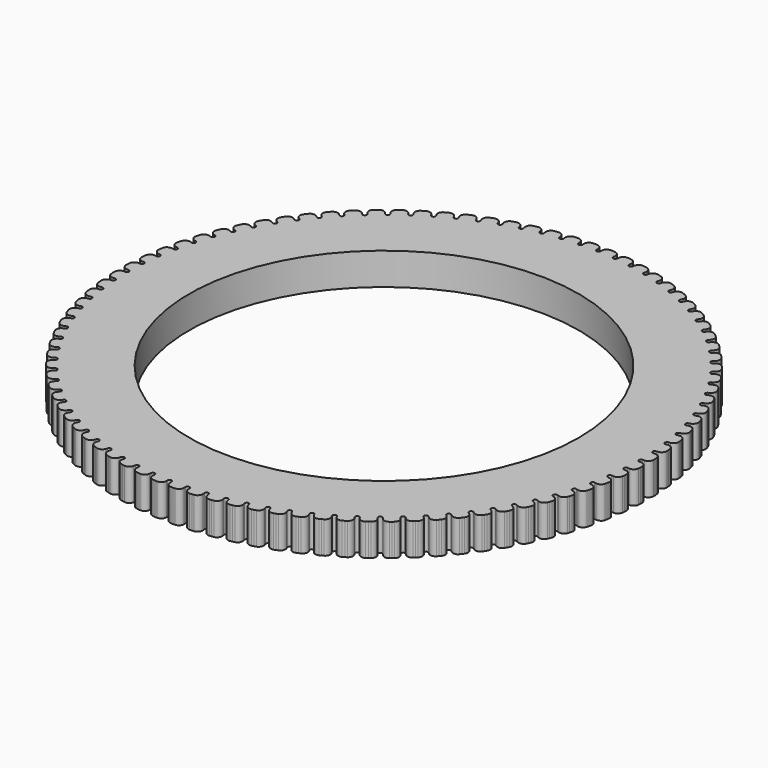
from build123d import *

# Parameters (mm, degrees)
F1_DEPTH = 3.175


with BuildPart() as f1:
    # F0 (on Top) → F1 (new body)
    with BuildSketch(Plane.XY):
        with BuildLine():
            ThreePointArc((1.0883892412, 25.4375211326), (0.8816834349, 25.2481101584), (0.6886937953, 25.4514788051))
            Line((0.6886937953, 25.4514788051), (0.691787247, 25.6287025377))
            ThreePointArc((0.691787247, 25.6287025377), (0.5523547983, 25.9872524846), (0.2015935622, 26.1452589003))
            Line((0.2015935622, 26.1452589003), (0, 26.1522987026))
            Line((0, 26.1522987026), (-0.2046078058, 26.1451536406))
            ThreePointArc((-0.2046078058, 26.1451536406), (-0.5584065419, 25.9839182674), (-0.6945694016, 25.6197341562))
            Line((-0.6945694016, 25.6197341562), (-0.6886937953, 25.4514788051))
            ThreePointArc((-0.6886937953, 25.4514788051), (-0.8816834349, 25.2481101584), (-1.0883892412, 25.4375211326))
            Line((-1.0883892412, 25.4375211326), (-1.0976658276, 25.6145289454))
            ThreePointArc((-1.0976658276, 25.6145289454), (-1.2617698058, 25.9624791667), (-1.6226985756, 26.0956328197))
            Line((-1.6226985756, 26.0956328197), (-1.8242921378, 26.0885930174))
            Line((-1.8242921378, 26.0885930174), (-2.0279031149, 26.0671926414))
            ThreePointArc((-2.0279031149, 26.0671926414), (-2.369592804, 25.8816702772), (-2.4800197784, 25.5088750592))
            Line((-2.4800197784, 25.5088750592), (-2.4624215848, 25.3414394313))
            ThreePointArc((-2.4624215848, 25.3414394313), (-2.6407548318, 25.1251039036), (-2.8601697547, 25.299634414))
            Line((-2.8601697547, 25.299634414), (-2.8817711847, 25.4755639428))
            ThreePointArc((-2.8817711847, 25.4755639428), (-3.0697471943, 25.81121926), (-3.4390850891, 25.9188714391))
            Line((-3.4390850891, 25.9188714391), (-3.6396965077, 25.8977863294))
            Line((-3.6396965077, 25.8977863294), (-3.8413186839, 25.8622348998))
            ThreePointArc((-3.8413186839, 25.8622348998), (-4.1692346482, 25.653329391), (-4.2533877482, 25.273739287))
            Line((-4.2533877482, 25.273739287), (-4.2241527039, 25.1079391118))
            ThreePointArc((-4.2241527039, 25.1079391118), (-4.3869607365, 24.8796906682), (-4.6180158087, 25.0384904198))
            Line((-4.6180158087, 25.0384904198), (-4.6518368422, 25.2124845534))
            ThreePointArc((-4.6518368422, 25.2124845534), (-4.862769083, 25.5342096876), (-5.2387167256, 25.6158359223))
            Line((-5.2387167256, 25.6158359223), (-5.437368642, 25.5808082297))
            Line((-5.437368642, 25.5808082297), (-5.6360197344, 25.5312789495))
            ThreePointArc((-5.6360197344, 25.5312789495), (-5.9485644002, 25.3000080626), (-6.0060336404, 24.9154723976))
            Line((-6.0060336404, 24.9154723976), (-5.9653041756, 24.7521154369))
            ThreePointArc((-5.9653041756, 24.7521154369), (-6.1117938095, 24.5130660808), (-6.3533633539, 24.655361417))
            Line((-6.3533633539, 24.655361417), (-6.3992392182, 24.8265724737))
            ThreePointArc((-6.3992392182, 24.8265724737), (-6.6321000496, 25.1328000123), (-7.0128258609, 25.1880026277))
            Line((-7.0128258609, 25.1880026277), (-7.2085504629, 25.1392030036))
            Line((-7.2085504629, 25.1392030036), (-7.4032626633, 25.0759371746))
            ThreePointArc((-7.4032626633, 25.0759371746), (-7.6989133445, 24.8234276382), (-7.7294187405, 24.4358198312))
            Line((-7.7294187405, 24.4358198312), (-7.6773932851, 24.2757019436))
            ThreePointArc((-7.6773932851, 24.2757019436), (-7.8068508374, 24.0270162994), (-8.0577579514, 24.1521139718))
            Line((-8.0577579514, 24.1521139718), (-8.115465144, 24.3197078284))
            ThreePointArc((-8.115465144, 24.3197078284), (-8.3691200914, 24.6089458616), (-8.7527692136, 24.6374559162))
            Line((-8.7527692136, 24.6374559162), (-8.9446129506, 24.5751221075))
            Line((-8.9446129506, 24.5751221075), (-9.1344376407, 24.4984279543))
            ThreePointArc((-9.1344376407, 24.4984279543), (-9.4117539568, 24.2259099695), (-9.4151468893, 23.8371184068))
            Line((-9.4151468893, 23.8371184068), (-9.3520789061, 23.6810196707))
            ThreePointArc((-9.3520789061, 23.6810196707), (-9.4638736728, 23.4239093098), (-9.7228959621, 23.5311998551))
            Line((-9.7228959621, 23.5311998551), (-9.7921533394, 23.6943600112))
            ThreePointArc((-9.7921533394, 23.6943600112), (-10.0653666213, 23.9651994004), (-10.4500699544, 23.966877996))
            Line((-10.4500699544, 23.966877996), (-10.637098183, 23.8913136867))
            Line((-10.637098183, 23.8913136867), (-10.8211105561, 23.8015648557))
            ThreePointArc((-10.8211105561, 23.8015648557), (-11.0787414499, 23.5103661026), (-11.055005389, 23.1222849376))
            Line((-11.055005389, 23.1222849376), (-10.9812021389, 22.9709658503))
            ThreePointArc((-10.9812021389, 22.9709658503), (-11.0747894669, 22.7066833887), (-11.3406650011, 22.795644098))
            Line((-11.3406650011, 22.795644098), (-11.421135148, 22.9535756537))
            ThreePointArc((-11.421135148, 22.9535756537), (-11.7125756969, 23.2046968967), (-12.0964590049, 23.1795358554))
            Line((-12.0964590049, 23.1795358554), (-12.2777605424, 23.0911091872))
            Line((-12.2777605424, 23.0911091872), (-12.4550641085, 22.9887429256))
            ThreePointArc((-12.4550641085, 22.9887429256), (-12.6917544283, 22.6802820954), (-12.6410050137, 22.2948020204))
            Line((-12.6410050137, 22.2948020204), (-12.5568260586, 22.1489997933))
            ThreePointArc((-12.5568260586, 22.1489997933), (-12.63175, 21.8788327885), (-12.9031834601, 21.9490302543))
            Line((-12.9031834601, 21.9490302543), (-12.9944743343, 22.100963783))
            ThreePointArc((-12.9944743343, 22.100963783), (-13.302722281, 22.3311434423), (-13.683915323, 22.2792653461))
            Line((-13.683915323, 22.2792653461), (-13.8586068865, 22.1784071249))
            Line((-13.8586068865, 22.1784071249), (-14.0283378406, 22.0639221507))
            ThreePointArc((-14.0283378406, 22.0639221507), (-14.2429344549, 21.7397020335), (-14.1654189325, 21.3587010689))
            Line((-14.1654189325, 21.3587010689), (-14.0712743839, 21.2191260358))
            ThreePointArc((-14.0712743839, 21.2191260358), (-14.1271699168, 20.9443907142), (-14.4028389064, 20.9954829415))
            Line((-14.4028389064, 20.9954829415), (-14.5045057477, 21.1406782383))
            ThreePointArc((-14.5045057477, 21.1406782383), (-14.8280593393, 21.3487949017), (-15.2047049812, 21.2704524955))
            Line((-15.2047049812, 21.2704524955), (-15.371935491, 21.1576540924))
            Line((-15.371935491, 21.1576540924), (-15.5332669209, 21.0316081651))
            ThreePointArc((-15.5332669209, 21.0316081651), (-15.7247243365, 20.6932083287), (-15.6208203543, 20.3185426728))
            Line((-15.6208203543, 20.3185426728), (-15.5171688749, 20.1858748291))
            ThreePointArc((-15.5171688749, 20.1858748291), (-15.5537636819, 19.9079096737), (-15.8323251692, 19.9396477463))
            Line((-15.8323251692, 19.9396477463), (-15.9438726672, 20.0773974343))
            ThreePointArc((-15.9438726672, 20.0773974343), (-16.281155583, 20.2624371783), (-16.6514188451, 20.1580121385))
            Line((-16.6514188451, 20.1580121385), (-16.8103735709, 20.0338230959))
            Line((-16.8103735709, 20.0338230959), (-16.9625194862, 19.8968302985))
            ThreePointArc((-16.9625194862, 19.8968302985), (-17.1299049418, 19.5458993929), (-17.0001187095, 19.1793943791))
            Line((-17.0001187095, 19.1793943791), (-16.887465279, 19.0542800693))
            ThreePointArc((-16.887465279, 19.0542800693), (-16.9045810737, 18.7744392984), (-17.1846779353, 18.7866685915))
            Line((-17.1846779353, 18.7866685915), (-17.3055626417, 18.9163015681))
            ThreePointArc((-17.3055626417, 18.9163015681), (-17.6549316733, 19.0773628978), (-18.0170086701, 18.9473639726))
            Line((-18.0170086701, 18.9473639726), (-18.1669132005, 18.8123893271))
            Line((-18.1669132005, 18.8123893271), (-18.3091323615, 18.6651170747))
            ThreePointArc((-18.3091323615, 18.6651170747), (-18.4516303721, 18.3033648), (-18.2965941952, 17.9468060039))
            Line((-18.2965941952, 17.9468060039), (-18.1754876497, 17.8298547724))
            ThreePointArc((-18.1754876497, 17.8298547724), (-18.1730410459, 17.5495017421), (-18.4533086779, 17.5421626759))
            Line((-18.4533086779, 17.5421626759), (-18.5829416545, 17.6630473822))
            ThreePointArc((-18.5829416545, 17.6630473822), (-18.9426947112, 17.7993456229), (-19.29482144, 17.644406154))
            Line((-19.29482144, 17.644406154), (-19.4349454552, 17.4993034886))
            Line((-19.4349454552, 17.4993034886), (-19.5665449845, 17.3424692768))
            ThreePointArc((-19.5665449845, 17.3424692768), (-19.683461314, 16.9716580537), (-19.5039305131, 16.6267825939))
            Line((-19.5039305131, 16.6267825939), (-19.3749608716, 16.5185642153))
            ThreePointArc((-19.3749608716, 16.5185642153), (-19.3529637887, 16.2390647773), (-19.6320367556, 16.212193107))
            Line((-19.6320367556, 16.212193107), (-19.7697864436, 16.3237406049))
            ThreePointArc((-19.7697864436, 16.3237406049), (-20.1381708445, 16.4346117253), (-20.4786317794, 16.2554865622))
            Line((-20.4786317794, 16.2554865622), (-20.6082926092, 16.1009628024))
            Line((-20.6082926092, 16.1009628024), (-20.7286313671, 15.9353307118))
            ThreePointArc((-20.7286313671, 15.9353307118), (-20.819396411, 15.5572670954), (-20.6162456421, 15.2257551705))
            Line((-20.6162456421, 15.2257551705), (-20.4800412316, 15.1267968738))
            ThreePointArc((-20.4800412316, 15.1267968738), (-20.4386008374, 14.8495127213), (-20.7151195235, 14.8032393629))
            Line((-20.7151195235, 14.8032393629), (-20.8603148204, 14.9049062042))
            ThreePointArc((-20.8603148204, 14.9049062042), (-21.2355358338, 14.9898100513), (-21.5626722832, 14.7873718739))
            Line((-21.5626722832, 14.7873718739), (-21.6812382332, 14.624179844))
            Line((-21.6812382332, 14.624179844), (-21.7897299413, 14.4505568173))
            ThreePointArc((-21.7897299413, 14.4505568173), (-21.8539015013, 14.0670826955), (-21.6281204947, 13.7505493983))
            Line((-21.6281204947, 13.7505493983), (-21.4853448895, 13.6613332984))
            ThreePointArc((-21.4853448895, 13.6613332984), (-21.4246630772, 13.387615332), (-21.6972803115, 13.3221657247))
            Line((-21.6972803115, 13.3221657247), (-21.8492138402, 13.4134565988))
            ThreePointArc((-21.8492138402, 13.4134565988), (-22.2294434271, 13.4719795296), (-22.5416616151, 13.2472145963))
            Line((-22.5416616151, 13.2472145963), (-22.6485550438, 13.0761493513))
            Line((-22.6485550438, 13.0761493513), (-22.7446711415, 12.8953812627))
            ThreePointArc((-22.7446711415, 12.8953812627), (-22.7819365804, 12.5083648828), (-22.5346253182, 12.2083523316))
            Line((-22.5346253182, 12.2083523316), (-22.3859741067, 12.1293130804))
            ThreePointArc((-22.3859741067, 12.1293130804), (-22.3063465122, 11.8604948264), (-22.5737341307, 11.7761878342))
            Line((-22.5737341307, 11.7761878342), (-22.7316656865, 11.8566579811))
            ThreePointArc((-22.7316656865, 11.8566579811), (-23.1150514065, 11.8885148778), (-23.4108302375, 11.6425182207))
            Line((-23.4108302375, 11.6425182207), (-23.505530371, 11.4644131734))
            Line((-23.505530371, 11.4644131734), (-23.5888025902, 11.2773807067))
            ThreePointArc((-23.5888025902, 11.2773807067), (-23.5989803544, 10.8887075737), (-23.3313437124, 10.6066773996))
            Line((-23.3313437124, 10.6066773996), (-23.1775411083, 10.5382000684))
            ThreePointArc((-23.1775411083, 10.5382000684), (-23.0793556692, 10.2755911823), (-23.3402109864, 10.1728375403))
            Line((-23.3402109864, 10.1728375403), (-23.5033711425, 10.2420949176))
            ThreePointArc((-23.5033711425, 10.2420949176), (-23.8880451789, 10.2471305765), (-24.1659436483, 9.9811006667))
            Line((-24.1659436483, 9.9811006667), (-24.2479891169, 9.796823527))
            Line((-24.2479891169, 9.796823527), (-24.3180117639, 9.6044378856))
            ThreePointArc((-24.3180117639, 9.6044378856), (-24.3010522683, 9.2160015758), (-24.0143941453, 8.9533278014))
            Line((-24.0143941453, 8.9533278014), (-23.8561894595, 8.8957460049))
            ThreePointArc((-23.8561894595, 8.8957460049), (-23.7399245252, 8.6406258909), (-23.9929766803, 8.5199262045))
            Line((-23.9929766803, 8.5199262045), (-24.1605705369, 8.5776333971))
            ThreePointArc((-24.1605705369, 8.5776333971), (-24.5446587965, 8.5558232851), (-24.8033230107, 8.2710561935))
            Line((-24.8033230107, 8.2710561935), (-24.8723140972, 8.0815047411))
            Line((-24.8723140972, 8.0815047411), (-24.9287460286, 7.8847032085))
            ThreePointArc((-24.9287460286, 7.8847032085), (-24.8847318983, 7.4983961447), (-24.5804488638, 7.2563584902))
            Line((-24.5804488638, 7.2563584902), (-24.4186128536, 7.209952761))
            ThreePointArc((-24.4186128536, 7.209952761), (-24.2848348553, 6.9635643387), (-24.5288510035, 6.8255066446))
            Line((-24.5288510035, 6.8255066446), (-24.7000620602, 6.871382509))
            ThreePointArc((-24.7000620602, 6.871382509), (-25.0816933036, 6.8228328827), (-25.3198630766, 6.520715966))
            Line((-25.3198630766, 6.520715966), (-25.3754636635, 6.3268136764))
            Line((-25.3754636635, 6.3268136764), (-25.4180299485, 6.12655505))
            ThreePointArc((-25.4180299485, 6.12655505), (-25.3471756159, 5.7442592812), (-25.0267501063, 5.5240369299))
            Line((-25.0267501063, 5.5240369299), (-24.8620712204, 5.4890333521))
            ThreePointArc((-24.8620712204, 5.4890333521), (-24.7114319111, 5.252577001), (-24.9452232304, 5.0978339024))
            Line((-24.9452232304, 5.0978339024), (-25.119217364, 5.1316549359))
            ThreePointArc((-25.119217364, 5.1316549359), (-25.4965323222, 5.0566023244), (-25.7130473148, 4.7386074657))
            Line((-25.7130473148, 4.7386074657), (-25.7549865214, 4.5412990115))
            Line((-25.7549865214, 4.5412990115), (-25.7834797816, 4.3385589311))
            ThreePointArc((-25.7834797816, 4.3385589311), (-25.6861304418, 3.962136964), (-25.3511235379, 3.7648028168))
            Line((-25.3511235379, 3.7648028168), (-25.1844040754, 3.7413719244))
            ThreePointArc((-25.1844040754, 3.7413719244), (-25.0176373547, 3.5159996361), (-25.2400648371, 3.345325026))
            Line((-25.2400648371, 3.345325026), (-25.4159943658, 3.3669264559))
            ThreePointArc((-25.4159943658, 3.3669264559), (-25.7871547982, 3.2657365077), (-25.9809601712, 2.9334129462))
            Line((-25.9809601712, 2.9334129462), (-26.009033674, 2.7336595943))
            Line((-26.009033674, 2.7336595943), (-26.0233150929, 2.5294257891))
            ThreePointArc((-26.0233150929, 2.5294257891), (-25.8999450221, 2.1607115137), (-25.551988844, 1.9872269629))
            Line((-25.551988844, 1.9872269629), (-25.3840410452, 1.9754829088))
            ThreePointArc((-25.3840410452, 1.9754829088), (-25.2019593837, 1.7622926744), (-25.411939385, 1.5765180622))
            Line((-25.411939385, 1.5765180622), (-25.5889471979, 1.5857946486))
            ThreePointArc((-25.5889471979, 1.5857946486), (-25.9521448481, 1.4589603511), (-26.1222964012, 1.1139271336))
            Line((-26.1222964012, 1.1139271336), (-26.1363674289, 0.9127020623))
            Line((-26.1363674289, 0.9127020623), (-26.1363674289, 0.707969539))
            ThreePointArc((-26.1363674289, 0.707969539), (-25.9875776737, 0.3487592942), (-25.6283674289, 0.199969539))
            Line((-25.6283674289, 0.199969539), (-25.4600095187, 0.199969539))
            ThreePointArc((-25.4600095187, 0.199969539), (-25.2635, 0), (-25.4600095187, -0.199969539))
            Line((-25.4600095187, -0.199969539), (-25.6372332513, -0.2030629908))
            ThreePointArc((-25.6372332513, -0.2030629908), (-25.990698657, -0.3549237137), (-26.1363674289, -0.7109856199))
            Line((-26.1363674289, -0.7109856199), (-26.1363674289, -0.9127020623))
            Line((-26.1363674289, -0.9127020623), (-26.12208601, -1.1169358675))
            ThreePointArc((-26.12208601, -1.1169358675), (-25.9486014592, -1.4648920456), (-25.5798871838, -1.5882621164))
            Line((-25.5798871838, -1.5882621164), (-25.411939385, -1.5765180622))
            ThreePointArc((-25.411939385, -1.5765180622), (-25.2019593837, -1.7622926744), (-25.3840410452, -1.9754829088))
            Line((-25.3840410452, -1.9754829088), (-25.5606172815, -1.9909313277))
            ThreePointArc((-25.5606172815, -1.9909313277), (-25.9026283947, -2.1670786258), (-26.0231047017, -2.532434523))
            Line((-26.0231047017, -2.532434523), (-26.009033674, -2.7336595943))
            Line((-26.009033674, -2.7336595943), (-25.9805404138, -2.9363996748))
            ThreePointArc((-25.9805404138, -2.9363996748), (-25.7832062667, -3.2714065786), (-25.4067842996, -3.3687559184))
            Line((-25.4067842996, -3.3687559184), (-25.2400648371, -3.345325026))
            ThreePointArc((-25.2400648371, -3.345325026), (-25.0176373547, -3.5159996361), (-25.1844040754, -3.7413719244))
            Line((-25.1844040754, -3.7413719244), (-25.3594725536, -3.7691000473))
            ThreePointArc((-25.3594725536, -3.7691000473), (-25.6883631305, -3.9686757487), (-25.7830600242, -4.3415456597))
            Line((-25.7830600242, -4.3415456597), (-25.7549865214, -4.5412990115))
            Line((-25.7549865214, -4.5412990115), (-25.7124202364, -4.741557638))
            ThreePointArc((-25.7124202364, -4.741557638), (-25.492197885, -5.0619831476), (-25.1099021162, -5.1328374802))
            Line((-25.1099021162, -5.1328374802), (-24.9452232304, -5.0978339024))
            ThreePointArc((-24.9452232304, -5.0978339024), (-24.7114319111, -5.252577001), (-24.8620712204, -5.4890333521))
            Line((-24.8620712204, -5.4890333521), (-25.0347790245, -5.5289060904))
            ThreePointArc((-25.0347790245, -5.5289060904), (-25.3489467434, -5.7509378823), (-25.4174028701, -6.1295052223))
            Line((-25.4174028701, -6.1295052223), (-25.3754636635, -6.3268136764))
            Line((-25.3754636635, -6.3268136764), (-25.3190317321, -6.523615209))
            ThreePointArc((-25.3190317321, -6.523615209), (-25.0769940776, -6.8278982435), (-24.6906870138, -6.8719123738))
            Line((-24.6906870138, -6.8719123738), (-24.5288510035, -6.8255066446))
            ThreePointArc((-24.5288510035, -6.8255066446), (-24.2848348553, -6.9635643387), (-24.4186128536, -7.209952761))
            Line((-24.4186128536, -7.209952761), (-24.5881185685, -7.2617758588))
            ThreePointArc((-24.5881185685, -7.2617758588), (-24.8860328357, -7.5051820246), (-24.927914684, -7.8876024516))
            Line((-24.927914684, -7.8876024516), (-24.8723140972, -8.0815047411))
            Line((-24.8723140972, -8.0815047411), (-24.8022914503, -8.2738903825))
            ThreePointArc((-24.8022914503, -8.2738903825), (-24.5396176759, -8.5605485055), (-24.1511813661, -8.577508001))
            Line((-24.1511813661, -8.577508001), (-23.9929766803, -8.5199262045))
            ThreePointArc((-23.9929766803, -8.5199262045), (-23.7399245252, -8.6406258909), (-23.8561894595, -8.8957460049))
            Line((-23.8561894595, -8.8957460049), (-24.0216672704, -8.9592669851))
            ThreePointArc((-24.0216672704, -8.9592669851), (-24.3018766777, -9.2228616745), (-24.3169802034, -9.6072720746))
            Line((-24.3169802034, -9.6072720746), (-24.2479891169, -9.796823527))
            Line((-24.2479891169, -9.796823527), (-24.1647168976, -9.9838559937))
            ThreePointArc((-24.1647168976, -9.9838559937), (-23.8826867235, -10.2514926357), (-23.4940135905, -10.2413148715))
            Line((-23.4940135905, -10.2413148715), (-23.3402109864, -10.1728375403))
            ThreePointArc((-23.3402109864, -10.1728375403), (-23.0793556692, -10.2755911823), (-23.1775411083, -10.5382000684))
            Line((-23.1775411083, -10.5382000684), (-23.3381848241, -10.6131094633))
            ThreePointArc((-23.3381848241, -10.6131094633), (-23.5993242193, -10.8956084694), (-23.5875758396, -11.2801360338))
            Line((-23.5875758396, -11.2801360338), (-23.505530371, -11.4644131734))
            Line((-23.505530371, -11.4644131734), (-23.4094142733, -11.6451812621))
            ThreePointArc((-23.4094142733, -11.6451812621), (-23.1094017221, -11.8924925242), (-22.7223853422, -11.8552270854))
            Line((-22.7223853422, -11.8552270854), (-22.5737341307, -11.7761878342))
            ThreePointArc((-22.5737341307, -11.7761878342), (-22.3063465122, -11.8604948264), (-22.3859741067, -12.1293130804))
            Line((-22.3859741067, -12.1293130804), (-22.5410010872, -12.2152459389))
            ThreePointArc((-22.5410010872, -12.2152459389), (-22.7817982254, -12.515272955), (-22.7432551773, -12.8980443041))
            Line((-22.7432551773, -12.8980443041), (-22.6485550438, -13.0761493513))
            Line((-22.6485550438, -13.0761493513), (-22.5400633357, -13.2497723779))
            ThreePointArc((-22.5400633357, -13.2497723779), (-22.2235300385, -13.4755533846), (-21.8400559166, -13.4113818245))
            Line((-21.8400559166, -13.4113818245), (-21.6972803115, -13.3221657247))
            ThreePointArc((-21.6972803115, -13.3221657247), (-21.4246630772, -13.387615332), (-21.4853448895, -13.6613332984))
            Line((-21.4853448895, -13.6613332984), (-21.6339998588, -13.7578709643))
            ThreePointArc((-21.6339998588, -13.7578709643), (-21.8532816007, -14.0739642889), (-21.7881316619, -14.453114599))
            Line((-21.7881316619, -14.453114599), (-21.6812382332, -14.624179844))
            Line((-21.6812382332, -14.624179844), (-21.5608994753, -14.7898119346))
            ThreePointArc((-21.5608994753, -14.7898119346), (-21.2293875504, -14.9929627035), (-20.851323934, -14.9021976596))
            Line((-20.851323934, -14.9021976596), (-20.7151195235, -14.8032393629))
            ThreePointArc((-20.7151195235, -14.8032393629), (-20.4386008374, -14.8495127213), (-20.4800412316, -15.1267968738))
            Line((-20.4800412316, -15.1267968738), (-20.6215999578, -15.2334690252))
            ThreePointArc((-20.6215999578, -15.2334690252), (-20.8182979846, -15.5640886835), (-20.7268585592, -15.9377707725))
            Line((-20.7268585592, -15.9377707725), (-20.6082926092, -16.1009628024))
            Line((-20.6082926092, -16.1009628024), (-20.4766930799, -16.2577970142))
            ThreePointArc((-20.4766930799, -16.2577970142), (-20.1318176201, -16.4373278151), (-19.7610063971, -16.3204114856))
            Line((-19.7610063971, -16.3204114856), (-19.6320367556, -16.212193107))
            ThreePointArc((-19.6320367556, -16.212193107), (-19.3529637887, -16.2390647773), (-19.3749608716, -16.5185642153))
            Line((-19.3749608716, -16.5185642153), (-19.5087336947, -16.6348511563))
            ThreePointArc((-19.5087336947, -16.6348511563), (-19.6818897135, -16.9783864024), (-19.564606285, -17.3447797288))
            Line((-19.564606285, -17.3447797288), (-19.4349454552, -17.4993034886))
            Line((-19.4349454552, -17.4993034886), (-19.2927262942, -17.646575741))
            ThreePointArc((-19.2927262942, -17.646575741), (-18.9361674981, -17.801611918), (-18.5744152234, -17.6591139074))
            Line((-18.5744152234, -17.6591139074), (-18.4533086779, -17.5421626759))
            ThreePointArc((-18.4533086779, -17.5421626759), (-18.1730410459, -17.5495017421), (-18.1754876497, -17.8298547724))
            Line((-18.1754876497, -17.8298547724), (-18.300822842, -17.9551899647))
            ThreePointArc((-18.300822842, -17.9551899647), (-18.449593254, -18.3099671295), (-18.3070372157, -18.6672866617))
            Line((-18.3070372157, -18.6672866617), (-18.1669132005, -18.8123893271))
            Line((-18.1669132005, -18.8123893271), (-18.0147672852, -18.9493821246))
            ThreePointArc((-18.0147672852, -18.9493821246), (-17.6482622714, -19.0791683569), (-17.2973313659, -18.9117829013))
            Line((-17.2973313659, -18.9117829013), (-17.1846779353, -18.7866685915))
            ThreePointArc((-17.1846779353, -18.7866685915), (-16.9045810737, -18.7744392984), (-16.887465279, -19.0542800693))
            Line((-16.887465279, -19.0542800693), (-17.00375222, -19.1880528925))
            ThreePointArc((-17.00375222, -19.1880528925), (-17.1274122308, -19.5523435373), (-16.9602781013, -19.8988484505))
            Line((-16.9602781013, -19.8988484505), (-16.8103735709, -20.0338230959))
            Line((-16.8103735709, -20.0338230959), (-16.6490421409, -20.1598690233))
            ThreePointArc((-16.6490421409, -20.1598690233), (-16.274376485, -20.2637730055), (-15.9359766486, -20.0723155899))
            Line((-15.9359766486, -20.0723155899), (-15.8323251692, -19.9396477463))
            ThreePointArc((-15.8323251692, -19.9396477463), (-15.5537636819, -19.9079096737), (-15.5171688749, -20.1858748291))
            Line((-15.5171688749, -20.1858748291), (-15.6238410264, -20.3274335553))
            ThreePointArc((-15.6238410264, -20.3274335553), (-15.7217881769, -20.6994628927), (-15.5308902167, -21.0334650499))
            Line((-15.5308902167, -21.0334650499), (-15.371935491, -21.1576540924))
            Line((-15.371935491, -21.1576540924), (-15.2022045368, -21.2721390665))
            ThreePointArc((-15.2022045368, -21.2721390665), (-14.8212035722, -21.3496545889), (-14.496983455, -21.1350579746))
            Line((-14.496983455, -21.1350579746), (-14.4028389064, -20.9954829415))
            ThreePointArc((-14.4028389064, -20.9954829415), (-14.1271699168, -20.9443907142), (-14.0712743839, -21.2191260358))
            Line((-14.0712743839, -21.2191260358), (-14.1678120498, -21.3677810051))
            ThreePointArc((-14.1678120498, -21.3677810051), (-14.2395691512, -21.7457365456), (-14.0258373963, -22.0656087218))
            Line((-14.0258373963, -22.0656087218), (-13.8586068865, -22.1784071249))
            Line((-13.8586068865, -22.1784071249), (-13.6813033203, -22.2807733865))
            ThreePointArc((-13.6813033203, -22.2807733865), (-13.2958232454, -22.3315228012), (-12.9873624152, -22.0948324814))
            Line((-12.9873624152, -22.0948324814), (-12.9031834601, -21.9490302543))
            ThreePointArc((-12.9031834601, -21.9490302543), (-12.63175, -21.8788327885), (-12.5568260586, -22.1489997933))
            Line((-12.5568260586, -22.1489997933), (-12.6427589171, -22.3040267738))
            ThreePointArc((-12.6427589171, -22.3040267738), (-12.6879763761, -22.6860671559), (-12.4524521059, -22.990250966))
            Line((-12.4524521059, -22.990250966), (-12.2777605424, -23.0911091872))
            Line((-12.2777605424, -23.0911091872), (-12.0937481693, -23.1808580182))
            ThreePointArc((-12.0937481693, -23.1808580182), (-11.7056670043, -23.2045940791), (-11.4144682512, -22.9469631853))
            Line((-11.4144682512, -22.9469631853), (-11.3406650011, -22.795644098))
            ThreePointArc((-11.3406650011, -22.795644098), (-11.0747894669, -22.7066833887), (-10.9812021389, -22.9709658503))
            Line((-10.9812021389, -22.9709658503), (-11.0561115337, -23.131609566))
            ThreePointArc((-11.0561115337, -23.131609566), (-11.0745690554, -23.5158735275), (-10.8183997205, -23.8028870185))
            Line((-10.8183997205, -23.8028870185), (-10.637098183, -23.8913136867))
            Line((-10.637098183, -23.8913136867), (-10.4472734929, -23.9680078398))
            ThreePointArc((-10.4472734929, -23.9680078398), (-10.0584819302, -23.9646149073), (-9.7859639453, -23.6872985912))
            Line((-9.7859639453, -23.6872985912), (-9.7228959621, -23.5311998551))
            ThreePointArc((-9.7228959621, -23.5311998551), (-9.4638736728, -23.4239093098), (-9.3520789061, -23.6810196707))
            Line((-9.3520789061, -23.6810196707), (-9.4155998864, -23.8464974816))
            ThreePointArc((-9.4155998864, -23.8464974816), (-9.4072075475, -24.231112927), (-9.1316411792, -24.4995577981))
            Line((-9.1316411792, -24.4995577981), (-8.9446129506, -24.5751221075))
            Line((-8.9446129506, -24.5751221075), (-8.7499007502, -24.6383879365))
            ThreePointArc((-8.7499007502, -24.6383879365), (-8.3622929432, -24.6078825405), (-8.1097834068, -24.3122318593))
            Line((-8.1097834068, -24.3122318593), (-8.0577579514, -24.1521139718))
            ThreePointArc((-8.0577579514, -24.1521139718), (-7.8068508374, -24.0270162994), (-7.6773932851, -24.2757019436))
            Line((-7.6773932851, -24.2757019436), (-7.7292163828, -24.4452076586))
            ThreePointArc((-7.7292163828, -24.4452076586), (-7.69401507, -24.8283007801), (-7.4003941999, -25.0768691948))
            Line((-7.4003941999, -25.0768691948), (-7.2085504629, -25.1392030036))
            Line((-7.2085504629, -25.1392030036), (-7.0098993705, -25.1887322837))
            ThreePointArc((-7.0098993705, -25.1887322837), (-6.6253637055, -25.1312630435), (-6.3940928186, -24.8187183777))
            Line((-6.3940928186, -24.8187183777), (-6.3533633539, -24.655361417))
            ThreePointArc((-6.3533633539, -24.655361417), (-6.1117938095, -24.5130660808), (-5.9653041756, -24.7521154369))
            Line((-5.9653041756, -24.7521154369), (-6.005176914, -24.924823241))
            ThreePointArc((-6.005176914, -24.924823241), (-5.9433381245, -25.3045276475), (-5.633093244, -25.5320086055))
            Line((-5.633093244, -25.5320086055), (-5.437368642, -25.5808082297))
            Line((-5.437368642, -25.5808082297), (-5.2357464658, -25.6163596592))
            ThreePointArc((-5.2357464658, -25.6163596592), (-4.8561563619, -25.5322065592), (-4.647250853, -25.204290595))
            Line((-4.647250853, -25.204290595), (-4.6180158087, -25.0384904198))
            ThreePointArc((-4.6180158087, -25.0384904198), (-4.3869607365, -24.8796906682), (-4.2241527039, -25.1079391118))
            Line((-4.2241527039, -25.1079391118), (-4.2518808268, -25.28300759))
            ThreePointArc((-4.2518808268, -25.28300759), (-4.1637058331, -25.6574733997), (-3.8383484241, -25.8627586368))
            Line((-3.8383484241, -25.8627586368), (-3.6396965077, -25.8977863294))
            Line((-3.6396965077, -25.8977863294), (-3.4360855306, -25.9191867054))
            ThreePointArc((-3.4360855306, -25.9191867054), (-3.0632903126, -25.808759731), (-2.8777679484, -25.4670700419))
            Line((-2.8777679484, -25.4670700419), (-2.8601697547, -25.299634414))
            ThreePointArc((-2.8601697547, -25.299634414), (-2.6407548318, -25.1251039036), (-2.4624215848, -25.3414394313))
            Line((-2.4624215848, -25.3414394313), (-2.4778700037, -25.5180156675))
            ThreePointArc((-2.4778700037, -25.5180156675), (-2.3637883854, -25.8854185207), (-2.0249035564, -26.0675079077))
            Line((-2.0249035564, -26.0675079077), (-1.8242921378, -26.0885930174))
            Line((-1.8242921378, -26.0885930174), (-1.619684332, -26.0957380794))
            ThreePointArc((-1.619684332, -26.0957380794), (-1.2555002208, -25.9595752197), (-1.0942648476, -25.6057764836))
            Line((-1.0942648476, -25.6057764836), (-1.0883892412, -25.4375211326))
            ThreePointArc((-1.0883892412, -25.4375211326), (-0.8816834349, -25.2481101584), (-0.6886937953, -25.4514788051))
            Line((-0.6886937953, -25.4514788051), (-0.691787247, -25.6287025377))
            ThreePointArc((-0.691787247, -25.6287025377), (-0.5523547983, -25.9872524846), (-0.2015935622, -26.1452589003))
            Line((-0.2015935622, -26.1452589003), (0, -26.1522987026))
            Line((0, -26.1522987026), (0.2046078058, -26.1451536406))
            ThreePointArc((0.2046078058, -26.1451536406), (0.5584065419, -25.9839182674), (0.6945694016, -25.6197341562))
            Line((0.6945694016, -25.6197341562), (0.6886937953, -25.4514788051))
            ThreePointArc((0.6886937953, -25.4514788051), (0.8816834349, -25.2481101584), (1.0883892412, -25.4375211326))
            Line((1.0883892412, -25.4375211326), (1.0976658276, -25.6145289454))
            ThreePointArc((1.0976658276, -25.6145289454), (1.2617698058, -25.9624791667), (1.6226985756, -26.0956328197))
            Line((1.6226985756, -26.0956328197), (1.8242921378, -26.0885930174))
            Line((1.8242921378, -26.0885930174), (2.0279031149, -26.0671926414))
            ThreePointArc((2.0279031149, -26.0671926414), (2.369592804, -25.8816702772), (2.4800197784, -25.5088750592))
            Line((2.4800197784, -25.5088750592), (2.4624215848, -25.3414394313))
            ThreePointArc((2.4624215848, -25.3414394313), (2.6407548318, -25.1251039036), (2.8601697547, -25.299634414))
            Line((2.8601697547, -25.299634414), (2.8817711847, -25.4755639428))
            ThreePointArc((2.8817711847, -25.4755639428), (3.0697471943, -25.81121926), (3.4390850891, -25.9188714391))
            Line((3.4390850891, -25.9188714391), (3.6396965077, -25.8977863294))
            Line((3.6396965077, -25.8977863294), (3.8413186839, -25.8622348998))
            ThreePointArc((3.8413186839, -25.8622348998), (4.1692346482, -25.653329391), (4.2533877482, -25.273739287))
            Line((4.2533877482, -25.273739287), (4.2241527039, -25.1079391118))
            ThreePointArc((4.2241527039, -25.1079391118), (4.3869607365, -24.8796906682), (4.6180158087, -25.0384904198))
            Line((4.6180158087, -25.0384904198), (4.6518368422, -25.2124845534))
            ThreePointArc((4.6518368422, -25.2124845534), (4.862769083, -25.5342096876), (5.2387167256, -25.6158359223))
            Line((5.2387167256, -25.6158359223), (5.437368642, -25.5808082297))
            Line((5.437368642, -25.5808082297), (5.6360197344, -25.5312789495))
            ThreePointArc((5.6360197344, -25.5312789495), (5.9485644002, -25.3000080626), (6.0060336404, -24.9154723976))
            Line((6.0060336404, -24.9154723976), (5.9653041756, -24.7521154369))
            ThreePointArc((5.9653041756, -24.7521154369), (6.1117938095, -24.5130660808), (6.3533633539, -24.655361417))
            Line((6.3533633539, -24.655361417), (6.3992392182, -24.8265724737))
            ThreePointArc((6.3992392182, -24.8265724737), (6.6321000496, -25.1328000123), (7.0128258609, -25.1880026277))
            Line((7.0128258609, -25.1880026277), (7.2085504629, -25.1392030036))
            Line((7.2085504629, -25.1392030036), (7.4032626633, -25.0759371746))
            ThreePointArc((7.4032626633, -25.0759371746), (7.6989133445, -24.8234276382), (7.7294187405, -24.4358198312))
            Line((7.7294187405, -24.4358198312), (7.6773932851, -24.2757019436))
            ThreePointArc((7.6773932851, -24.2757019436), (7.8068508374, -24.0270162994), (8.0577579514, -24.1521139718))
            Line((8.0577579514, -24.1521139718), (8.115465144, -24.3197078284))
            ThreePointArc((8.115465144, -24.3197078284), (8.3691200914, -24.6089458616), (8.7527692136, -24.6374559162))
            Line((8.7527692136, -24.6374559162), (8.9446129506, -24.5751221075))
            Line((8.9446129506, -24.5751221075), (9.1344376407, -24.4984279543))
            ThreePointArc((9.1344376407, -24.4984279543), (9.4117539568, -24.2259099695), (9.4151468893, -23.8371184068))
            Line((9.4151468893, -23.8371184068), (9.3520789061, -23.6810196707))
            ThreePointArc((9.3520789061, -23.6810196707), (9.4638736728, -23.4239093098), (9.7228959621, -23.5311998551))
            Line((9.7228959621, -23.5311998551), (9.7921533394, -23.6943600112))
            ThreePointArc((9.7921533394, -23.6943600112), (10.0653666213, -23.9651994004), (10.4500699544, -23.966877996))
            Line((10.4500699544, -23.966877996), (10.637098183, -23.8913136867))
            Line((10.637098183, -23.8913136867), (10.8211105561, -23.8015648557))
            ThreePointArc((10.8211105561, -23.8015648557), (11.0787414499, -23.5103661026), (11.055005389, -23.1222849376))
            Line((11.055005389, -23.1222849376), (10.9812021389, -22.9709658503))
            ThreePointArc((10.9812021389, -22.9709658503), (11.0747894669, -22.7066833887), (11.3406650011, -22.795644098))
            Line((11.3406650011, -22.795644098), (11.421135148, -22.9535756537))
            ThreePointArc((11.421135148, -22.9535756537), (11.7125756969, -23.2046968967), (12.0964590049, -23.1795358554))
            Line((12.0964590049, -23.1795358554), (12.2777605424, -23.0911091872))
            Line((12.2777605424, -23.0911091872), (12.4550641085, -22.9887429256))
            ThreePointArc((12.4550641085, -22.9887429256), (12.6917544283, -22.6802820954), (12.6410050137, -22.2948020204))
            Line((12.6410050137, -22.2948020204), (12.5568260586, -22.1489997933))
            ThreePointArc((12.5568260586, -22.1489997933), (12.63175, -21.8788327885), (12.9031834601, -21.9490302543))
            Line((12.9031834601, -21.9490302543), (12.9944743343, -22.100963783))
            ThreePointArc((12.9944743343, -22.100963783), (13.302722281, -22.3311434423), (13.683915323, -22.2792653461))
            Line((13.683915323, -22.2792653461), (13.8586068865, -22.1784071249))
            Line((13.8586068865, -22.1784071249), (14.0283378406, -22.0639221507))
            ThreePointArc((14.0283378406, -22.0639221507), (14.2429344549, -21.7397020335), (14.1654189325, -21.3587010689))
            Line((14.1654189325, -21.3587010689), (14.0712743839, -21.2191260358))
            ThreePointArc((14.0712743839, -21.2191260358), (14.1271699168, -20.9443907142), (14.4028389064, -20.9954829415))
            Line((14.4028389064, -20.9954829415), (14.5045057477, -21.1406782383))
            ThreePointArc((14.5045057477, -21.1406782383), (14.8280593393, -21.3487949017), (15.2047049812, -21.2704524955))
            Line((15.2047049812, -21.2704524955), (15.371935491, -21.1576540924))
            Line((15.371935491, -21.1576540924), (15.5332669209, -21.0316081651))
            ThreePointArc((15.5332669209, -21.0316081651), (15.7247243365, -20.6932083287), (15.6208203543, -20.3185426728))
            Line((15.6208203543, -20.3185426728), (15.5171688749, -20.1858748291))
            ThreePointArc((15.5171688749, -20.1858748291), (15.5537636819, -19.9079096737), (15.8323251692, -19.9396477463))
            Line((15.8323251692, -19.9396477463), (15.9438726672, -20.0773974343))
            ThreePointArc((15.9438726672, -20.0773974343), (16.281155583, -20.2624371783), (16.6514188451, -20.1580121385))
            Line((16.6514188451, -20.1580121385), (16.8103735709, -20.0338230959))
            Line((16.8103735709, -20.0338230959), (16.9625194862, -19.8968302985))
            ThreePointArc((16.9625194862, -19.8968302985), (17.1299049418, -19.5458993929), (17.0001187095, -19.1793943791))
            Line((17.0001187095, -19.1793943791), (16.887465279, -19.0542800693))
            ThreePointArc((16.887465279, -19.0542800693), (16.9045810737, -18.7744392984), (17.1846779353, -18.7866685915))
            Line((17.1846779353, -18.7866685915), (17.3055626417, -18.9163015681))
            ThreePointArc((17.3055626417, -18.9163015681), (17.6549316733, -19.0773628978), (18.0170086701, -18.9473639726))
            Line((18.0170086701, -18.9473639726), (18.1669132005, -18.8123893271))
            Line((18.1669132005, -18.8123893271), (18.3091323615, -18.6651170747))
            ThreePointArc((18.3091323615, -18.6651170747), (18.4516303721, -18.3033648), (18.2965941952, -17.9468060039))
            Line((18.2965941952, -17.9468060039), (18.1754876497, -17.8298547724))
            ThreePointArc((18.1754876497, -17.8298547724), (18.1730410459, -17.5495017421), (18.4533086779, -17.5421626759))
            Line((18.4533086779, -17.5421626759), (18.5829416545, -17.6630473822))
            ThreePointArc((18.5829416545, -17.6630473822), (18.9426947112, -17.7993456229), (19.29482144, -17.644406154))
            Line((19.29482144, -17.644406154), (19.4349454552, -17.4993034886))
            Line((19.4349454552, -17.4993034886), (19.5665449845, -17.3424692768))
            ThreePointArc((19.5665449845, -17.3424692768), (19.683461314, -16.9716580537), (19.5039305131, -16.6267825939))
            Line((19.5039305131, -16.6267825939), (19.3749608716, -16.5185642153))
            ThreePointArc((19.3749608716, -16.5185642153), (19.3529637887, -16.2390647773), (19.6320367556, -16.212193107))
            Line((19.6320367556, -16.212193107), (19.7697864436, -16.3237406049))
            ThreePointArc((19.7697864436, -16.3237406049), (20.1381708445, -16.4346117253), (20.4786317794, -16.2554865622))
            Line((20.4786317794, -16.2554865622), (20.6082926092, -16.1009628024))
            Line((20.6082926092, -16.1009628024), (20.7286313671, -15.9353307118))
            ThreePointArc((20.7286313671, -15.9353307118), (20.819396411, -15.5572670954), (20.6162456421, -15.2257551705))
            Line((20.6162456421, -15.2257551705), (20.4800412316, -15.1267968738))
            ThreePointArc((20.4800412316, -15.1267968738), (20.4386008374, -14.8495127213), (20.7151195235, -14.8032393629))
            Line((20.7151195235, -14.8032393629), (20.8603148204, -14.9049062042))
            ThreePointArc((20.8603148204, -14.9049062042), (21.2355358338, -14.9898100513), (21.5626722832, -14.7873718739))
            Line((21.5626722832, -14.7873718739), (21.6812382332, -14.624179844))
            Line((21.6812382332, -14.624179844), (21.7897299413, -14.4505568173))
            ThreePointArc((21.7897299413, -14.4505568173), (21.8539015013, -14.0670826955), (21.6281204947, -13.7505493983))
            Line((21.6281204947, -13.7505493983), (21.4853448895, -13.6613332984))
            ThreePointArc((21.4853448895, -13.6613332984), (21.4246630772, -13.387615332), (21.6972803115, -13.3221657247))
            Line((21.6972803115, -13.3221657247), (21.8492138402, -13.4134565988))
            ThreePointArc((21.8492138402, -13.4134565988), (22.2294434271, -13.4719795296), (22.5416616151, -13.2472145963))
            Line((22.5416616151, -13.2472145963), (22.6485550438, -13.0761493513))
            Line((22.6485550438, -13.0761493513), (22.7446711415, -12.8953812627))
            ThreePointArc((22.7446711415, -12.8953812627), (22.7819365804, -12.5083648828), (22.5346253182, -12.2083523316))
            Line((22.5346253182, -12.2083523316), (22.3859741067, -12.1293130804))
            ThreePointArc((22.3859741067, -12.1293130804), (22.3063465122, -11.8604948264), (22.5737341307, -11.7761878342))
            Line((22.5737341307, -11.7761878342), (22.7316656865, -11.8566579811))
            ThreePointArc((22.7316656865, -11.8566579811), (23.1150514065, -11.8885148778), (23.4108302375, -11.6425182207))
            Line((23.4108302375, -11.6425182207), (23.505530371, -11.4644131734))
            Line((23.505530371, -11.4644131734), (23.5888025902, -11.2773807067))
            ThreePointArc((23.5888025902, -11.2773807067), (23.5989803544, -10.8887075737), (23.3313437124, -10.6066773996))
            Line((23.3313437124, -10.6066773996), (23.1775411083, -10.5382000684))
            ThreePointArc((23.1775411083, -10.5382000684), (23.0793556692, -10.2755911823), (23.3402109864, -10.1728375403))
            Line((23.3402109864, -10.1728375403), (23.5033711425, -10.2420949176))
            ThreePointArc((23.5033711425, -10.2420949176), (23.8880451789, -10.2471305765), (24.1659436483, -9.9811006667))
            Line((24.1659436483, -9.9811006667), (24.2479891169, -9.796823527))
            Line((24.2479891169, -9.796823527), (24.3180117639, -9.6044378856))
            ThreePointArc((24.3180117639, -9.6044378856), (24.3010522683, -9.2160015758), (24.0143941453, -8.9533278014))
            Line((24.0143941453, -8.9533278014), (23.8561894595, -8.8957460049))
            ThreePointArc((23.8561894595, -8.8957460049), (23.7399245252, -8.6406258909), (23.9929766803, -8.5199262045))
            Line((23.9929766803, -8.5199262045), (24.1605705369, -8.5776333971))
            ThreePointArc((24.1605705369, -8.5776333971), (24.5446587965, -8.5558232851), (24.8033230107, -8.2710561935))
            Line((24.8033230107, -8.2710561935), (24.8723140972, -8.0815047411))
            Line((24.8723140972, -8.0815047411), (24.9287460286, -7.8847032085))
            ThreePointArc((24.9287460286, -7.8847032085), (24.8847318983, -7.4983961447), (24.5804488638, -7.2563584902))
            Line((24.5804488638, -7.2563584902), (24.4186128536, -7.209952761))
            ThreePointArc((24.4186128536, -7.209952761), (24.2848348553, -6.9635643387), (24.5288510035, -6.8255066446))
            Line((24.5288510035, -6.8255066446), (24.7000620602, -6.871382509))
            ThreePointArc((24.7000620602, -6.871382509), (25.0816933036, -6.8228328827), (25.3198630766, -6.520715966))
            Line((25.3198630766, -6.520715966), (25.3754636635, -6.3268136764))
            Line((25.3754636635, -6.3268136764), (25.4180299485, -6.12655505))
            ThreePointArc((25.4180299485, -6.12655505), (25.3471756159, -5.7442592812), (25.0267501063, -5.5240369299))
            Line((25.0267501063, -5.5240369299), (24.8620712204, -5.4890333521))
            ThreePointArc((24.8620712204, -5.4890333521), (24.7114319111, -5.252577001), (24.9452232304, -5.0978339024))
            Line((24.9452232304, -5.0978339024), (25.119217364, -5.1316549359))
            ThreePointArc((25.119217364, -5.1316549359), (25.4965323222, -5.0566023244), (25.7130473148, -4.7386074657))
            Line((25.7130473148, -4.7386074657), (25.7549865214, -4.5412990115))
            Line((25.7549865214, -4.5412990115), (25.7834797816, -4.3385589311))
            ThreePointArc((25.7834797816, -4.3385589311), (25.6861304418, -3.962136964), (25.3511235379, -3.7648028168))
            Line((25.3511235379, -3.7648028168), (25.1844040754, -3.7413719244))
            ThreePointArc((25.1844040754, -3.7413719244), (25.0176373547, -3.5159996361), (25.2400648371, -3.345325026))
            Line((25.2400648371, -3.345325026), (25.4159943658, -3.3669264559))
            ThreePointArc((25.4159943658, -3.3669264559), (25.7871547982, -3.2657365077), (25.9809601712, -2.9334129462))
            Line((25.9809601712, -2.9334129462), (26.009033674, -2.7336595943))
            Line((26.009033674, -2.7336595943), (26.0233150929, -2.5294257891))
            ThreePointArc((26.0233150929, -2.5294257891), (25.8999450221, -2.1607115137), (25.551988844, -1.9872269629))
            Line((25.551988844, -1.9872269629), (25.3840410452, -1.9754829088))
            ThreePointArc((25.3840410452, -1.9754829088), (25.2019593837, -1.7622926744), (25.411939385, -1.5765180622))
            Line((25.411939385, -1.5765180622), (25.5889471979, -1.5857946486))
            ThreePointArc((25.5889471979, -1.5857946486), (25.9521448481, -1.4589603511), (26.1222964012, -1.1139271336))
            Line((26.1222964012, -1.1139271336), (26.1363674289, -0.9127020623))
            Line((26.1363674289, -0.9127020623), (26.1363674289, -0.707969539))
            ThreePointArc((26.1363674289, -0.707969539), (25.9875776737, -0.3487592942), (25.6283674289, -0.199969539))
            Line((25.6283674289, -0.199969539), (25.4600095187, -0.199969539))
            ThreePointArc((25.4600095187, -0.199969539), (25.2635, 0), (25.4600095187, 0.199969539))
            Line((25.4600095187, 0.199969539), (25.6372332513, 0.2030629908))
            ThreePointArc((25.6372332513, 0.2030629908), (25.990698657, 0.3549237137), (26.1363674289, 0.7109856199))
            Line((26.1363674289, 0.7109856199), (26.1363674289, 0.9127020623))
            Line((26.1363674289, 0.9127020623), (26.12208601, 1.1169358675))
            ThreePointArc((26.12208601, 1.1169358675), (25.9486014592, 1.4648920456), (25.5798871838, 1.5882621164))
            Line((25.5798871838, 1.5882621164), (25.411939385, 1.5765180622))
            ThreePointArc((25.411939385, 1.5765180622), (25.2019593837, 1.7622926744), (25.3840410452, 1.9754829088))
            Line((25.3840410452, 1.9754829088), (25.5606172815, 1.9909313277))
            ThreePointArc((25.5606172815, 1.9909313277), (25.9026283947, 2.1670786258), (26.0231047017, 2.532434523))
            Line((26.0231047017, 2.532434523), (26.009033674, 2.7336595943))
            Line((26.009033674, 2.7336595943), (25.9805404138, 2.9363996748))
            ThreePointArc((25.9805404138, 2.9363996748), (25.7832062667, 3.2714065786), (25.4067842996, 3.3687559184))
            Line((25.4067842996, 3.3687559184), (25.2400648371, 3.345325026))
            ThreePointArc((25.2400648371, 3.345325026), (25.0176373547, 3.5159996361), (25.1844040754, 3.7413719244))
            Line((25.1844040754, 3.7413719244), (25.3594725536, 3.7691000473))
            ThreePointArc((25.3594725536, 3.7691000473), (25.6883631305, 3.9686757487), (25.7830600242, 4.3415456597))
            Line((25.7830600242, 4.3415456597), (25.7549865214, 4.5412990115))
            Line((25.7549865214, 4.5412990115), (25.7124202364, 4.741557638))
            ThreePointArc((25.7124202364, 4.741557638), (25.492197885, 5.0619831476), (25.1099021162, 5.1328374802))
            Line((25.1099021162, 5.1328374802), (24.9452232304, 5.0978339024))
            ThreePointArc((24.9452232304, 5.0978339024), (24.7114319111, 5.252577001), (24.8620712204, 5.4890333521))
            Line((24.8620712204, 5.4890333521), (25.0347790245, 5.5289060904))
            ThreePointArc((25.0347790245, 5.5289060904), (25.3489467434, 5.7509378823), (25.4174028701, 6.1295052223))
            Line((25.4174028701, 6.1295052223), (25.3754636635, 6.3268136764))
            Line((25.3754636635, 6.3268136764), (25.3190317321, 6.523615209))
            ThreePointArc((25.3190317321, 6.523615209), (25.0769940776, 6.8278982435), (24.6906870138, 6.8719123738))
            Line((24.6906870138, 6.8719123738), (24.5288510035, 6.8255066446))
            ThreePointArc((24.5288510035, 6.8255066446), (24.2848348553, 6.9635643387), (24.4186128536, 7.209952761))
            Line((24.4186128536, 7.209952761), (24.5881185685, 7.2617758588))
            ThreePointArc((24.5881185685, 7.2617758588), (24.8860328357, 7.5051820246), (24.927914684, 7.8876024516))
            Line((24.927914684, 7.8876024516), (24.8723140972, 8.0815047411))
            Line((24.8723140972, 8.0815047411), (24.8022914503, 8.2738903825))
            ThreePointArc((24.8022914503, 8.2738903825), (24.5396176759, 8.5605485055), (24.1511813661, 8.577508001))
            Line((24.1511813661, 8.577508001), (23.9929766803, 8.5199262045))
            ThreePointArc((23.9929766803, 8.5199262045), (23.7399245252, 8.6406258909), (23.8561894595, 8.8957460049))
            Line((23.8561894595, 8.8957460049), (24.0216672704, 8.9592669851))
            ThreePointArc((24.0216672704, 8.9592669851), (24.3018766777, 9.2228616745), (24.3169802034, 9.6072720746))
            Line((24.3169802034, 9.6072720746), (24.2479891169, 9.796823527))
            Line((24.2479891169, 9.796823527), (24.1647168976, 9.9838559937))
            ThreePointArc((24.1647168976, 9.9838559937), (23.8826867235, 10.2514926357), (23.4940135905, 10.2413148715))
            Line((23.4940135905, 10.2413148715), (23.3402109864, 10.1728375403))
            ThreePointArc((23.3402109864, 10.1728375403), (23.0793556692, 10.2755911823), (23.1775411083, 10.5382000684))
            Line((23.1775411083, 10.5382000684), (23.3381848241, 10.6131094633))
            ThreePointArc((23.3381848241, 10.6131094633), (23.5993242193, 10.8956084694), (23.5875758396, 11.2801360338))
            Line((23.5875758396, 11.2801360338), (23.505530371, 11.4644131734))
            Line((23.505530371, 11.4644131734), (23.4094142733, 11.6451812621))
            ThreePointArc((23.4094142733, 11.6451812621), (23.1094017221, 11.8924925242), (22.7223853422, 11.8552270854))
            Line((22.7223853422, 11.8552270854), (22.5737341307, 11.7761878342))
            ThreePointArc((22.5737341307, 11.7761878342), (22.3063465122, 11.8604948264), (22.3859741067, 12.1293130804))
            Line((22.3859741067, 12.1293130804), (22.5410010872, 12.2152459389))
            ThreePointArc((22.5410010872, 12.2152459389), (22.7817982254, 12.515272955), (22.7432551773, 12.8980443041))
            Line((22.7432551773, 12.8980443041), (22.6485550438, 13.0761493513))
            Line((22.6485550438, 13.0761493513), (22.5400633357, 13.2497723779))
            ThreePointArc((22.5400633357, 13.2497723779), (22.2235300385, 13.4755533846), (21.8400559166, 13.4113818245))
            Line((21.8400559166, 13.4113818245), (21.6972803115, 13.3221657247))
            ThreePointArc((21.6972803115, 13.3221657247), (21.4246630772, 13.387615332), (21.4853448895, 13.6613332984))
            Line((21.4853448895, 13.6613332984), (21.6339998588, 13.7578709643))
            ThreePointArc((21.6339998588, 13.7578709643), (21.8532816007, 14.0739642889), (21.7881316619, 14.453114599))
            Line((21.7881316619, 14.453114599), (21.6812382332, 14.624179844))
            Line((21.6812382332, 14.624179844), (21.5608994753, 14.7898119346))
            ThreePointArc((21.5608994753, 14.7898119346), (21.2293875504, 14.9929627035), (20.851323934, 14.9021976596))
            Line((20.851323934, 14.9021976596), (20.7151195235, 14.8032393629))
            ThreePointArc((20.7151195235, 14.8032393629), (20.4386008374, 14.8495127213), (20.4800412316, 15.1267968738))
            Line((20.4800412316, 15.1267968738), (20.6215999578, 15.2334690252))
            ThreePointArc((20.6215999578, 15.2334690252), (20.8182979846, 15.5640886835), (20.7268585592, 15.9377707725))
            Line((20.7268585592, 15.9377707725), (20.6082926092, 16.1009628024))
            Line((20.6082926092, 16.1009628024), (20.4766930799, 16.2577970142))
            ThreePointArc((20.4766930799, 16.2577970142), (20.1318176201, 16.4373278151), (19.7610063971, 16.3204114856))
            Line((19.7610063971, 16.3204114856), (19.6320367556, 16.212193107))
            ThreePointArc((19.6320367556, 16.212193107), (19.3529637887, 16.2390647773), (19.3749608716, 16.5185642153))
            Line((19.3749608716, 16.5185642153), (19.5087336947, 16.6348511563))
            ThreePointArc((19.5087336947, 16.6348511563), (19.6818897135, 16.9783864024), (19.564606285, 17.3447797288))
            Line((19.564606285, 17.3447797288), (19.4349454552, 17.4993034886))
            Line((19.4349454552, 17.4993034886), (19.2927262942, 17.646575741))
            ThreePointArc((19.2927262942, 17.646575741), (18.9361674981, 17.801611918), (18.5744152234, 17.6591139074))
            Line((18.5744152234, 17.6591139074), (18.4533086779, 17.5421626759))
            ThreePointArc((18.4533086779, 17.5421626759), (18.1730410459, 17.5495017421), (18.1754876497, 17.8298547724))
            Line((18.1754876497, 17.8298547724), (18.300822842, 17.9551899647))
            ThreePointArc((18.300822842, 17.9551899647), (18.449593254, 18.3099671295), (18.3070372157, 18.6672866617))
            Line((18.3070372157, 18.6672866617), (18.1669132005, 18.8123893271))
            Line((18.1669132005, 18.8123893271), (18.0147672852, 18.9493821246))
            ThreePointArc((18.0147672852, 18.9493821246), (17.6482622714, 19.0791683569), (17.2973313659, 18.9117829013))
            Line((17.2973313659, 18.9117829013), (17.1846779353, 18.7866685915))
            ThreePointArc((17.1846779353, 18.7866685915), (16.9045810737, 18.7744392984), (16.887465279, 19.0542800693))
            Line((16.887465279, 19.0542800693), (17.00375222, 19.1880528925))
            ThreePointArc((17.00375222, 19.1880528925), (17.1274122308, 19.5523435373), (16.9602781013, 19.8988484505))
            Line((16.9602781013, 19.8988484505), (16.8103735709, 20.0338230959))
            Line((16.8103735709, 20.0338230959), (16.6490421409, 20.1598690233))
            ThreePointArc((16.6490421409, 20.1598690233), (16.274376485, 20.2637730055), (15.9359766486, 20.0723155899))
            Line((15.9359766486, 20.0723155899), (15.8323251692, 19.9396477463))
            ThreePointArc((15.8323251692, 19.9396477463), (15.5537636819, 19.9079096737), (15.5171688749, 20.1858748291))
            Line((15.5171688749, 20.1858748291), (15.6238410264, 20.3274335553))
            ThreePointArc((15.6238410264, 20.3274335553), (15.7217881769, 20.6994628927), (15.5308902167, 21.0334650499))
            Line((15.5308902167, 21.0334650499), (15.371935491, 21.1576540924))
            Line((15.371935491, 21.1576540924), (15.2022045368, 21.2721390665))
            ThreePointArc((15.2022045368, 21.2721390665), (14.8212035722, 21.3496545889), (14.496983455, 21.1350579746))
            Line((14.496983455, 21.1350579746), (14.4028389064, 20.9954829415))
            ThreePointArc((14.4028389064, 20.9954829415), (14.1271699168, 20.9443907142), (14.0712743839, 21.2191260358))
            Line((14.0712743839, 21.2191260358), (14.1678120498, 21.3677810051))
            ThreePointArc((14.1678120498, 21.3677810051), (14.2395691512, 21.7457365456), (14.0258373963, 22.0656087218))
            Line((14.0258373963, 22.0656087218), (13.8586068865, 22.1784071249))
            Line((13.8586068865, 22.1784071249), (13.6813033203, 22.2807733865))
            ThreePointArc((13.6813033203, 22.2807733865), (13.2958232454, 22.3315228012), (12.9873624152, 22.0948324814))
            Line((12.9873624152, 22.0948324814), (12.9031834601, 21.9490302543))
            ThreePointArc((12.9031834601, 21.9490302543), (12.63175, 21.8788327885), (12.5568260586, 22.1489997933))
            Line((12.5568260586, 22.1489997933), (12.6427589171, 22.3040267738))
            ThreePointArc((12.6427589171, 22.3040267738), (12.6879763761, 22.6860671559), (12.4524521059, 22.990250966))
            Line((12.4524521059, 22.990250966), (12.2777605424, 23.0911091872))
            Line((12.2777605424, 23.0911091872), (12.0937481693, 23.1808580182))
            ThreePointArc((12.0937481693, 23.1808580182), (11.7056670043, 23.2045940791), (11.4144682512, 22.9469631853))
            Line((11.4144682512, 22.9469631853), (11.3406650011, 22.795644098))
            ThreePointArc((11.3406650011, 22.795644098), (11.0747894669, 22.7066833887), (10.9812021389, 22.9709658503))
            Line((10.9812021389, 22.9709658503), (11.0561115337, 23.131609566))
            ThreePointArc((11.0561115337, 23.131609566), (11.0745690554, 23.5158735275), (10.8183997205, 23.8028870185))
            Line((10.8183997205, 23.8028870185), (10.637098183, 23.8913136867))
            Line((10.637098183, 23.8913136867), (10.4472734929, 23.9680078398))
            ThreePointArc((10.4472734929, 23.9680078398), (10.0584819302, 23.9646149073), (9.7859639453, 23.6872985912))
            Line((9.7859639453, 23.6872985912), (9.7228959621, 23.5311998551))
            ThreePointArc((9.7228959621, 23.5311998551), (9.4638736728, 23.4239093098), (9.3520789061, 23.6810196707))
            Line((9.3520789061, 23.6810196707), (9.4155998864, 23.8464974816))
            ThreePointArc((9.4155998864, 23.8464974816), (9.4072075475, 24.231112927), (9.1316411792, 24.4995577981))
            Line((9.1316411792, 24.4995577981), (8.9446129506, 24.5751221075))
            Line((8.9446129506, 24.5751221075), (8.7499007502, 24.6383879365))
            ThreePointArc((8.7499007502, 24.6383879365), (8.3622929432, 24.6078825405), (8.1097834068, 24.3122318593))
            Line((8.1097834068, 24.3122318593), (8.0577579514, 24.1521139718))
            ThreePointArc((8.0577579514, 24.1521139718), (7.8068508374, 24.0270162994), (7.6773932851, 24.2757019436))
            Line((7.6773932851, 24.2757019436), (7.7292163828, 24.4452076586))
            ThreePointArc((7.7292163828, 24.4452076586), (7.69401507, 24.8283007801), (7.4003941999, 25.0768691948))
            Line((7.4003941999, 25.0768691948), (7.2085504629, 25.1392030036))
            Line((7.2085504629, 25.1392030036), (7.0098993705, 25.1887322837))
            ThreePointArc((7.0098993705, 25.1887322837), (6.6253637055, 25.1312630435), (6.3940928186, 24.8187183777))
            Line((6.3940928186, 24.8187183777), (6.3533633539, 24.655361417))
            ThreePointArc((6.3533633539, 24.655361417), (6.1117938095, 24.5130660808), (5.9653041756, 24.7521154369))
            Line((5.9653041756, 24.7521154369), (6.005176914, 24.924823241))
            ThreePointArc((6.005176914, 24.924823241), (5.9433381245, 25.3045276475), (5.633093244, 25.5320086055))
            Line((5.633093244, 25.5320086055), (5.437368642, 25.5808082297))
            Line((5.437368642, 25.5808082297), (5.2357464658, 25.6163596592))
            ThreePointArc((5.2357464658, 25.6163596592), (4.8561563619, 25.5322065592), (4.647250853, 25.204290595))
            Line((4.647250853, 25.204290595), (4.6180158087, 25.0384904198))
            ThreePointArc((4.6180158087, 25.0384904198), (4.3869607365, 24.8796906682), (4.2241527039, 25.1079391118))
            Line((4.2241527039, 25.1079391118), (4.2518808268, 25.28300759))
            ThreePointArc((4.2518808268, 25.28300759), (4.1637058331, 25.6574733997), (3.8383484241, 25.8627586368))
            Line((3.8383484241, 25.8627586368), (3.6396965077, 25.8977863294))
            Line((3.6396965077, 25.8977863294), (3.4360855306, 25.9191867054))
            ThreePointArc((3.4360855306, 25.9191867054), (3.0632903126, 25.808759731), (2.8777679484, 25.4670700419))
            Line((2.8777679484, 25.4670700419), (2.8601697547, 25.299634414))
            ThreePointArc((2.8601697547, 25.299634414), (2.6407548318, 25.1251039036), (2.4624215848, 25.3414394313))
            Line((2.4624215848, 25.3414394313), (2.4778700037, 25.5180156675))
            ThreePointArc((2.4778700037, 25.5180156675), (2.3637883854, 25.8854185207), (2.0249035564, 26.0675079077))
            Line((2.0249035564, 26.0675079077), (1.8242921378, 26.0885930174))
            Line((1.8242921378, 26.0885930174), (1.7762439692, 26.0902708964))
            Line((1.7762439692, 26.0902708964), (1.619684332, 26.0957380794))
            ThreePointArc((1.619684332, 26.0957380794), (1.2555002208, 25.9595752197), (1.0942648476, 25.6057764836))
            Line((1.0942648476, 25.6057764836), (1.0883892412, 25.4375211326))
        make_face()
        with BuildLine():
            ThreePointArc((1.3465789692, 19.2569764262), (14.1180518561, 13.1652963426), (19.304, 0))
            ThreePointArc((19.304, 0), (-14.1180518561, -13.1652963426), (1.3465789692, 19.2569764262))
        make_face(mode=Mode.SUBTRACT)
        with BuildLine():
            ThreePointArc((1.8242921378, 26.0885930174), (1.8002826972, 26.0898512989), (1.7762439692, 26.0902708964))
            Line((1.7762439692, 26.0902708964), (1.8242921378, 26.0885930174))
        make_face()
    extrude(amount=F1_DEPTH)


solid = f1.part
